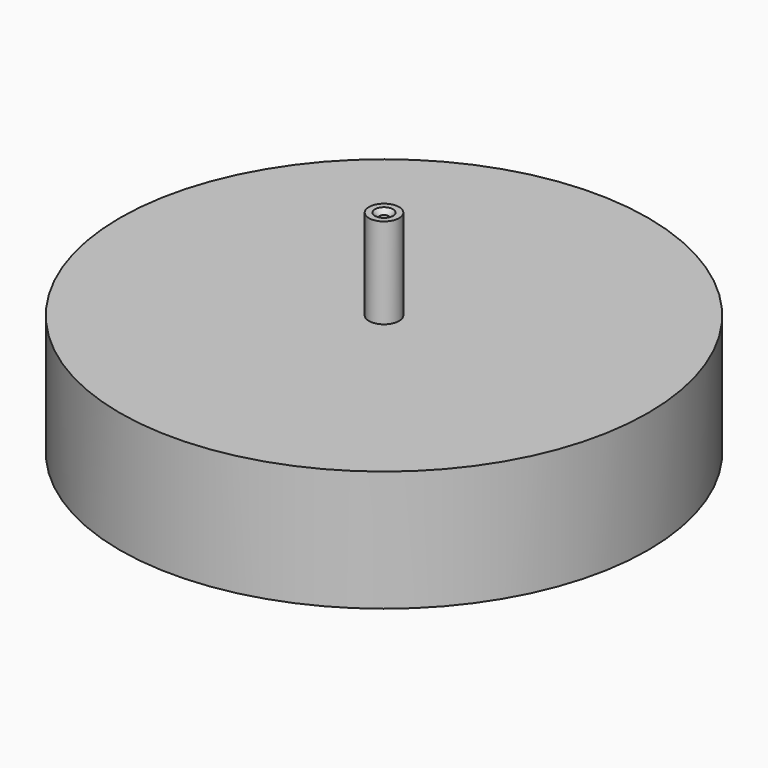
from build123d import *

# Parameters (mm, degrees)
F2_R          = 10
F2_R_2        = 3
F3_DEPTH      = 60
F3_DEPTH_BACK = 10
F4_SIZE       = 3


with BuildPart() as f1:
    # F0 (on Front) → F1 (revolve)
    with BuildSketch(Plane.XZ):
        Polygon((-10, 3.782501), (-10, 13.782501), (-175, 13.782501), (-175, -66.217499), (-15, -66.217499), (-15, -46.217499), (-4.5, -46.217499), (-4.5, 3.782501), align=None)
    revolve(axis=Axis((0, 0, 9.751017), (0, 0, -1)))


with BuildPart() as f3:
    # F2 (on face) → F3 (new body, two sides)
    with BuildSketch(Plane.XY.offset(13.782501)) as f3_sk:
        Circle(F2_R)
        Circle(F2_R_2, mode=Mode.SUBTRACT)
    extrude(amount=F3_DEPTH)
    extrude(f3_sk.sketch, amount=-F3_DEPTH_BACK)

    # F4
    f4_edges = [f3.edges().sort_by_distance(p)[0] for p in [
        (-3, 0, 73.782501),
    ]]
    chamfer(f4_edges, length=F4_SIZE)


solid = Compound([f1.part, f3.part])
